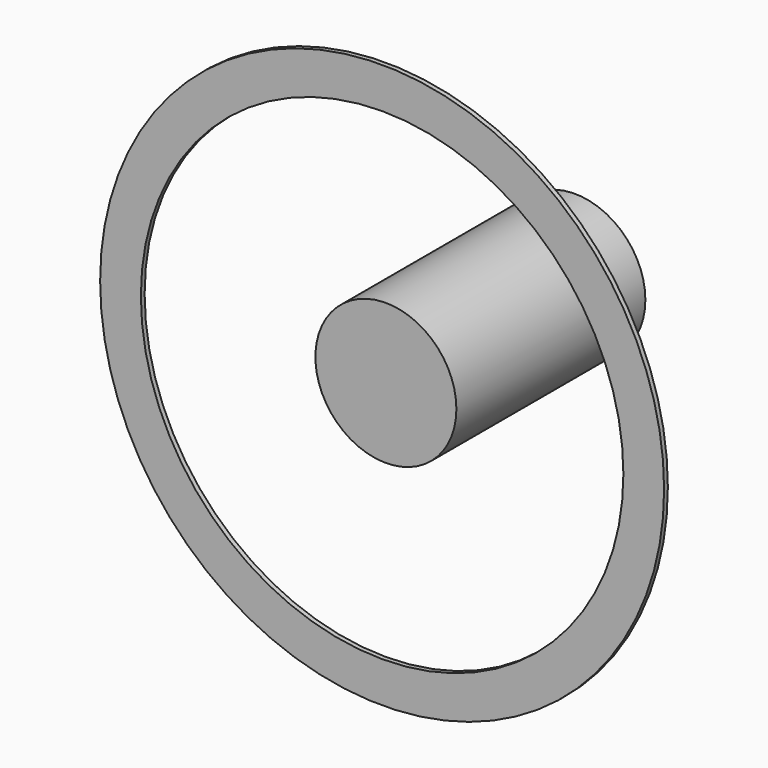
from build123d import *

# Parameters (mm, degrees)
F0_R     = 90
F0_R_2   = 77
F1_DEPTH = 1.5
F2_R     = 22.5
F3_DEPTH = 75.4


with BuildPart() as f1:
    # F0 (on Front) → F1 (new body)
    with BuildSketch(Plane.XZ):
        Circle(F0_R)
        Circle(F0_R_2, mode=Mode.SUBTRACT)
    extrude(amount=F1_DEPTH)


with BuildPart() as f3:
    # F2 (on Front) → F3 (new body)
    with BuildSketch(Plane.XZ):
        Circle(F2_R)
    extrude(amount=-F3_DEPTH)


solid = Compound([f1.part, f3.part])
